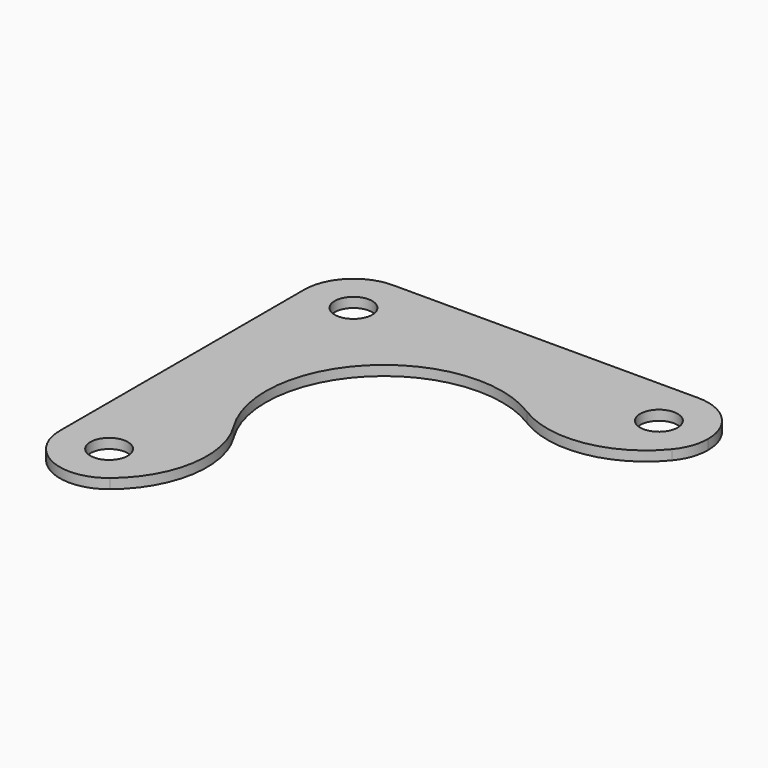
from build123d import *

# Parameters (mm, degrees)
F0_R     = 1.9
F1_DEPTH = 1


with BuildPart() as f1:
    # F0 (on Top) → F1 (new body)
    with BuildSketch(Plane.XY):
        with BuildLine():
            ThreePointArc((-10.5, 15.5), (-11.964466, 19.035534), (-15.5, 20.5))
            ThreePointArc((-15.5, 20.5), (-19.035534, 19.035534), (-20.5, 15.5))
            ThreePointArc((-20.5, 15.5), (-15.5, 10.5), (-10.5, 15.5))
        make_face()
        with Locations((-15.5, 15.5)):
            Circle(F0_R, mode=Mode.SUBTRACT)
        with BuildLine():
            ThreePointArc((19.365261, 12.328288), (10.980124, 13.362076), (15.5, 20.5))
            Line((15.5, 20.5), (-15.5, 20.5))
            ThreePointArc((-15.5, 20.5), (-11.964466, 19.035534), (-10.5, 15.5))
            ThreePointArc((-10.5, 15.5), (-15.5, 10.5), (-20.5, 15.5))
            Line((-20.5, 15.5), (-20.5, -15.5))
            ThreePointArc((-20.5, -15.5), (-15.5, -10.5), (-10.5, -15.5))
            ThreePointArc((-10.5, -15.5), (-10.980124, -17.637924), (-12.328288, -19.365261))
            ThreePointArc((-12.328288, -19.365261), (-8.804581, -13.259463), (-10.18457, -6.346221))
            ThreePointArc((-10.18457, -6.346221), (-8.485281, 8.485281), (6.346221, 10.18457))
            ThreePointArc((6.346221, 10.18457), (13.259463, 8.804581), (19.365261, 12.328288))
        make_face()
        with BuildLine():
            ThreePointArc((19.365261, 12.328288), (20.207776, 13.815705), (20.5, 15.5))
            ThreePointArc((20.5, 15.5), (19.035534, 19.035534), (15.5, 20.5))
            ThreePointArc((15.5, 20.5), (10.980124, 13.362076), (19.365261, 12.328288))
        make_face()
        with Locations((15.5, 15.5)):
            Circle(F0_R, mode=Mode.SUBTRACT)
        with BuildLine():
            ThreePointArc((-10.5, -15.5), (-15.5, -10.5), (-20.5, -15.5))
            ThreePointArc((-20.5, -15.5), (-17.637924, -20.019876), (-12.328288, -19.365261))
            ThreePointArc((-12.328288, -19.365261), (-10.980124, -17.637924), (-10.5, -15.5))
        make_face()
        with Locations((-15.5, -15.5)):
            Circle(F0_R, mode=Mode.SUBTRACT)
    extrude(amount=F1_DEPTH)


solid = f1.part
